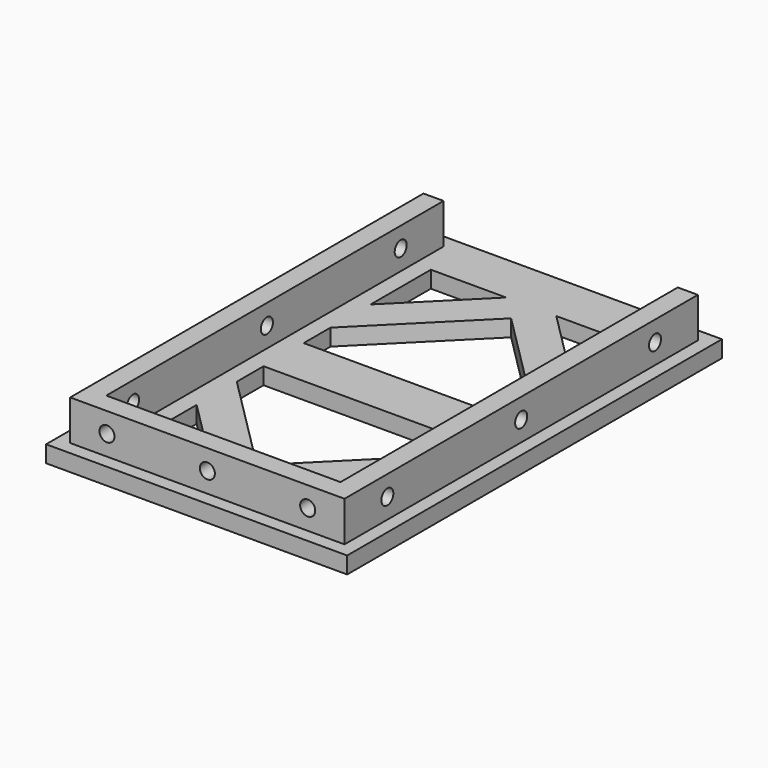
from build123d import *

# Parameters (mm, degrees)
F0_W     = 90
F0_H     = 140
F0_W_2   = 60
F0_H_2   = 15
F1_DEPTH = 5
F2_W     = 82
F2_H     = 132
F2_W_2   = 70
F2_H_2   = 120
F3_DEPTH = 12
F4_R     = 2.25
F5_DEPTH = 86.001
F6_R     = 2.25
F7_DEPTH = 136.001
F8_W     = 70
F8_H     = 12
F8_R     = 2.25
F9_DEPTH = 6


with BuildPart() as f1:
    # F0 (on Top) → F1 (new body)
    with BuildSketch(Plane.XY):
        Rectangle(F0_W, F0_H)
        Polygon((-30, 32.5), (-30, 55), (-7.5, 55), (7.5, 55), (30, 55), (30, 32.5), (30, 17.5), (30, 7.5), (30, -7.5), (30, -17.5), (30, -32.5), (30, -55), (7.5, -55), (-7.5, -55), (-30, -55), (-30, -32.5), (-30, -17.5), (-30, -7.5), (-30, 7.5), (-30, 17.5), align=None, mode=Mode.SUBTRACT)
        Polygon((7.5, 55), (-7.5, 55), (-30, 32.5), (-30, 17.5), (0, 47.5), (30, 17.5), (30, 32.5), align=None)
        Polygon((0, -47.5), (-30, -17.5), (-30, -32.5), (-7.5, -55), (7.5, -55), (30, -32.5), (30, -17.5), align=None)
        Rectangle(F0_W_2, F0_H_2)
    extrude(amount=F1_DEPTH)

    # F2 (on face) → F3 (join)
    with BuildSketch(Plane.XY.offset(5)):
        Rectangle(F2_W, F2_H)
        Rectangle(F2_W_2, F2_H_2, mode=Mode.SUBTRACT)
    extrude(amount=F3_DEPTH)

    # F4 (on face) → F5 (cut, through all)
    with BuildSketch(Plane(origin=(-41, 0, 0), x_dir=(0, -1, 0), z_dir=(-1, 0, 0))):
        with Locations((-50, 11)):
            Circle(F4_R)
        with Locations((0, 11)):
            Circle(F4_R)
        with Locations((50, 11)):
            Circle(F4_R)
    extrude(amount=-F5_DEPTH, mode=Mode.SUBTRACT)

    # F6 (on face) → F7 (cut, through all)
    with BuildSketch(Plane(origin=(0, 66, 0), x_dir=(-1, 0, 0), z_dir=(0, 1, 0))):
        with Locations((-30, 11)):
            Circle(F6_R)
        with Locations((0, 11)):
            Circle(F6_R)
        with Locations((30, 11)):
            Circle(F6_R)
    extrude(amount=-F7_DEPTH, mode=Mode.SUBTRACT)

    # F8 (on face) → F9 (cut, through all)
    with BuildSketch(Plane(origin=(0, 66, 0), x_dir=(-1, 0, 0), z_dir=(0, 1, 0))):
        with Locations((0, 11)):
            Rectangle(F8_W, F8_H)
        with Locations((-30, 11)):
            Circle(F8_R, mode=Mode.SUBTRACT)
        with Locations((0, 11)):
            Circle(F8_R, mode=Mode.SUBTRACT)
        with Locations((30, 11)):
            Circle(F8_R, mode=Mode.SUBTRACT)
    extrude(amount=-F9_DEPTH, mode=Mode.SUBTRACT)


solid = f1.part
